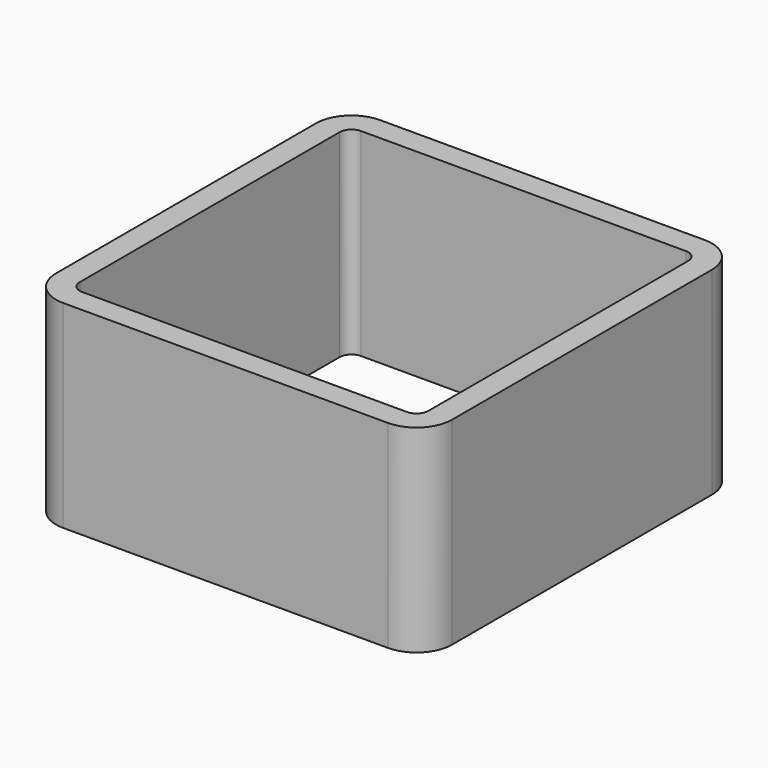
from build123d import *

# Parameters (mm, degrees)
F0_W     = 20
F0_H     = 20
F0_W_2   = 17.6
F0_H_2   = 17.6
F1_DEPTH = 10
F2_R     = 1.8
F3_R     = 1.8
F4_R     = 1.8
F5_R     = 1.8
F6_R     = 0.6
F7_R     = 0.6
F8_R     = 0.6
F9_R     = 0.6


with BuildPart() as f1:
    # F0 (on Top) → F1 (new body)
    with BuildSketch(Plane.XY):
        Rectangle(F0_W, F0_H)
        Rectangle(F0_W_2, F0_H_2, mode=Mode.SUBTRACT)
    extrude(amount=F1_DEPTH)

    # F2
    f2_edges = [f1.edges().sort_by_distance(p)[0] for p in [
        (10, -10, 5),
    ]]
    fillet(f2_edges, radius=F2_R)

    # F3
    f3_edges = [f1.edges().sort_by_distance(p)[0] for p in [
        (10, 10, 5),
    ]]
    fillet(f3_edges, radius=F3_R)

    # F4
    f4_edges = [f1.edges().sort_by_distance(p)[0] for p in [
        (-10, 10, 5),
    ]]
    fillet(f4_edges, radius=F4_R)

    # F5
    f5_edges = [f1.edges().sort_by_distance(p)[0] for p in [
        (-10, -10, 5),
    ]]
    fillet(f5_edges, radius=F5_R)

    # F6
    f6_edges = [f1.edges().sort_by_distance(p)[0] for p in [
        (-8.8, 8.8, 5),
    ]]
    fillet(f6_edges, radius=F6_R)

    # F7
    f7_edges = [f1.edges().sort_by_distance(p)[0] for p in [
        (-8.8, -8.8, 5),
    ]]
    fillet(f7_edges, radius=F7_R)

    # F8
    f8_edges = [f1.edges().sort_by_distance(p)[0] for p in [
        (8.8, -8.8, 5),
    ]]
    fillet(f8_edges, radius=F8_R)

    # F9
    f9_edges = [f1.edges().sort_by_distance(p)[0] for p in [
        (8.8, 8.8, 5),
    ]]
    fillet(f9_edges, radius=F9_R)


solid = f1.part
